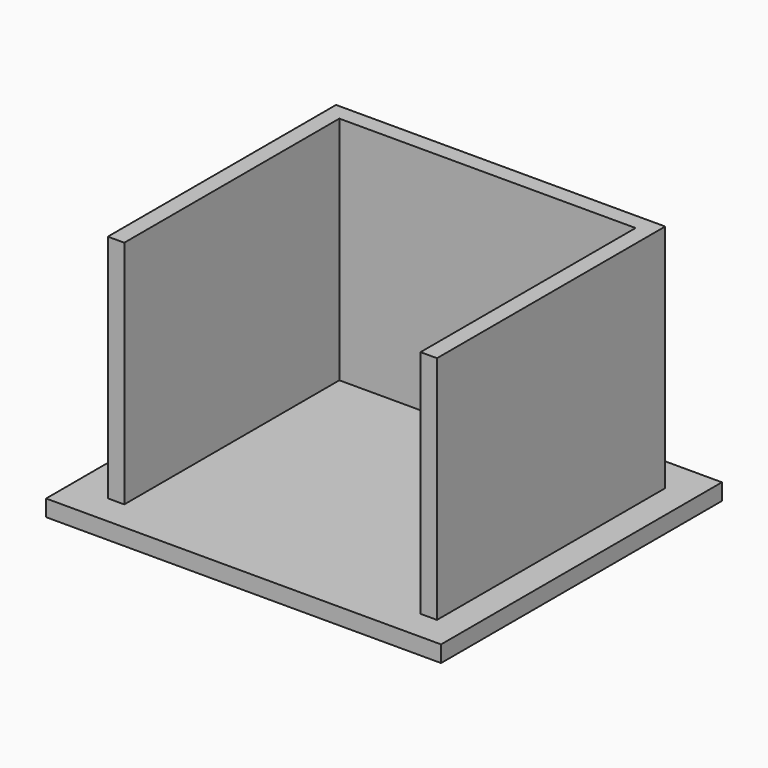
from build123d import *

# Parameters (mm, degrees)
F0_W     = 457.2
F0_H     = 406.4
F1_DEPTH = 19.05
F2_W     = 342.9
F2_H     = 19.009447
F3_DEPTH = 266.7


with BuildPart() as f1:
    # F0 (on Top) → F1 (new body)
    with BuildSketch(Plane.XY):
        Rectangle(F0_W, F0_H)
    extrude(amount=F1_DEPTH)

    # F2 (on face) → F3 (join)
    with BuildSketch(Plane.XY.offset(19.05)):
        Polygon((-185.195559, 162.081516), (-185.195559, -168.118484), (-166.145559, -168.118484), (-166.145559, 143.072069), (-166.145559, 162.081516), align=None)
        with Locations((5.304441, 152.576793)):
            Rectangle(F2_W, F2_H)
        Polygon((176.754441, 162.081516), (176.754441, 143.072069), (176.754441, -168.077931), (195.804441, -168.077931), (195.804441, 162.122069), (176.754441, 162.122069), align=None)
    extrude(amount=F3_DEPTH)


solid = f1.part
